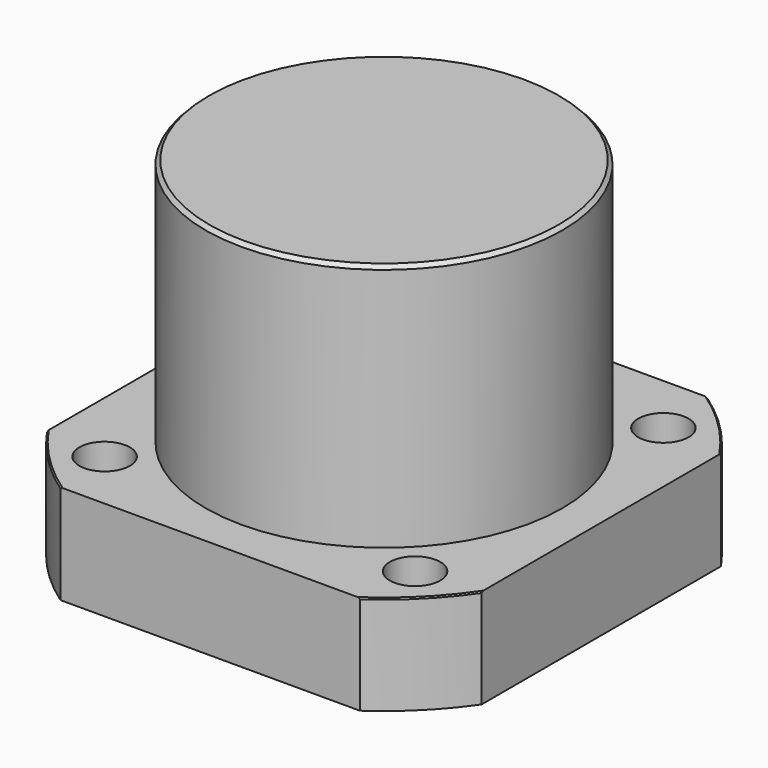
from build123d import *

# Parameters (mm, degrees)
F0_R     = 36.5125
F1_DEPTH = 50.8
F2_R     = 53.975
F3_DEPTH = 20.32
F4_SIZE  = 0.762
F5_SIZE  = 0.254
F6_R     = 69.85
F6_W     = 88.9
F6_H     = 88.9
F7_DEPTH = 25.4
F8_R     = 4.7752
F8_R_2   = 5.1562
F9_DEPTH = 25.4


with BuildPart() as f1:
    # F0 (on Top) → F1 (new body)
    with BuildSketch(Plane.XY):
        Circle(F0_R)
    extrude(amount=-F1_DEPTH)

    # F2 (on face) → F3 (join)
    with BuildSketch(Plane(origin=(0, 0, -50.8), x_dir=(1, 0, 0), z_dir=(0, 0, -1))):
        Circle(F2_R)
    extrude(amount=F3_DEPTH)

    # F4
    f4_edges = [f1.edges().sort_by_distance(p)[0] for p in [
        (-36.5125, 0, 0),
    ]]
    chamfer(f4_edges, length=F4_SIZE)

    # F5
    f5_edges = [f1.edges().sort_by_distance(p)[0] for p in [
        (-53.975, 0, -50.8),
    ]]
    chamfer(f5_edges, length=F5_SIZE)

    # F6 (on face) → F7 (cut)
    with BuildSketch(Plane(origin=(0, 0, -71.12), x_dir=(1, 0, 0), z_dir=(0, 0, -1))):
        Circle(F6_R)
        Rectangle(F6_W, F6_H, mode=Mode.SUBTRACT)
    extrude(amount=-F7_DEPTH, mode=Mode.SUBTRACT)

    # F8 (on face) → F9 (cut)
    with BuildSketch(Plane(origin=(0, 0, -71.12), x_dir=(1, 0, 0), z_dir=(0, 0, -1))):
        with Locations((-28.575, 0)):
            Circle(F8_R)
        with Locations((28.575, 0)):
            Circle(F8_R)
        with Locations((0, 28.575)):
            Circle(F8_R)
        with Locations((0, -28.575)):
            Circle(F8_R)
        with Locations((-31.75, 31.75)):
            Circle(F8_R_2)
        with Locations((31.75, 31.75)):
            Circle(F8_R_2)
        with Locations((31.75, -31.75)):
            Circle(F8_R_2)
        with Locations((-31.75, -31.75)):
            Circle(F8_R_2)
    extrude(amount=-F9_DEPTH, mode=Mode.SUBTRACT)


solid = f1.part
